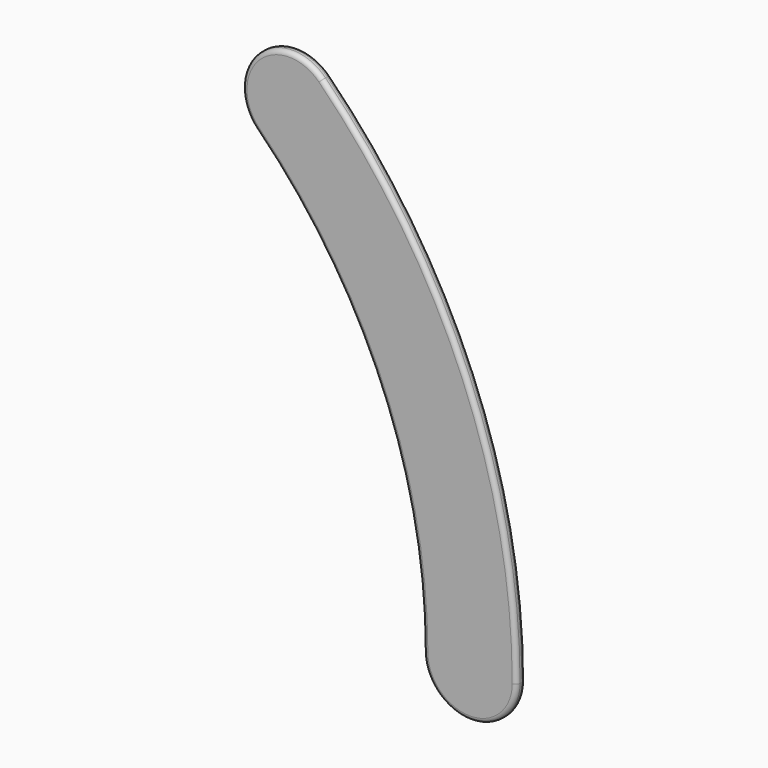
from build123d import *

# Parameters (mm, degrees)
F1_DEPTH = 2.5
F2_R     = 1


with BuildPart() as f1:
    # F0 (on Front) → F1 (new body)
    with BuildSketch(Plane.XZ):
        with BuildLine():
            ThreePointArc((131.39, 0), (142.09, -10.7), (152.79, 0))
            ThreePointArc((152.79, 0), (141.159554, 58.470202), (108.038845, 108.038845))
            ThreePointArc((108.038845, 108.038845), (92.90676, 108.038845), (92.90676, 92.90676))
            ThreePointArc((92.90676, 92.90676), (121.388532, 50.280776), (131.39, 0))
        make_face()
    extrude(amount=F1_DEPTH)

    # F2
    f2_edges = [f1.edges().sort_by_distance(p)[0] for p in [
        (141.159554, -2.5, 58.470202),
        (141.159554, 0, 58.470202),
    ]]
    fillet(f2_edges, radius=F2_R)


solid = f1.part
